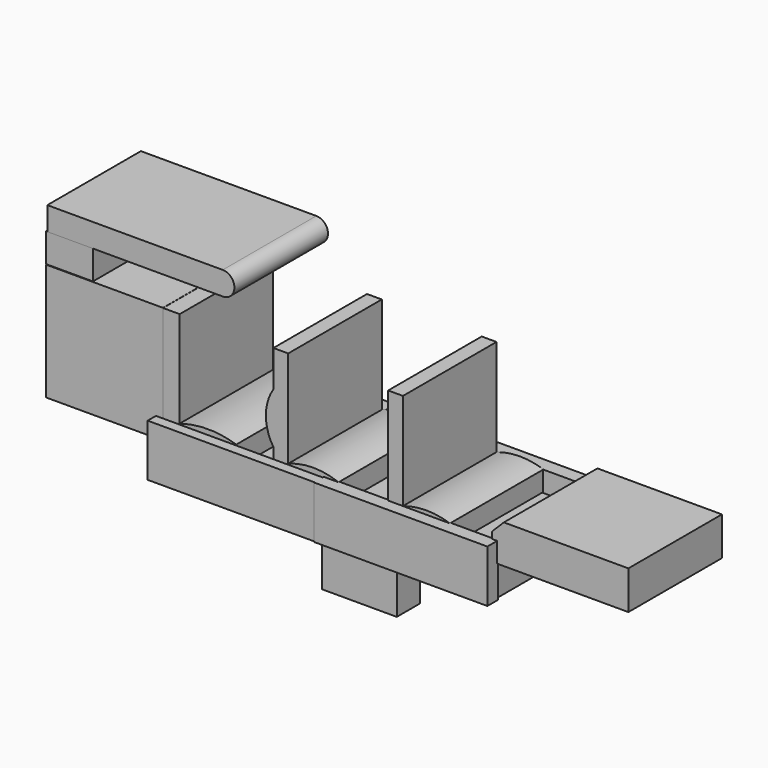
from build123d import *

# Parameters (mm, degrees)
F7_W      = 20.4032808542
F7_H      = 8.5985250771
F8_DEPTH  = 25.4
F6_W      = 59.1665431857
F6_H      = 16.7275518179
F0_W      = 50.3220036626
F0_H      = 14.3777141348
F0_W_2    = 45.4033091664
F0_W_3    = 50.7003590465
F2_W      = 24.6153399348
F2_H      = 9.1578979045
F1_W      = 50.8
F1_H      = 50.8
F3_W      = 20.32
F3_H      = 12.7
F9_W      = 12.7
F9_H      = 33.02
F10_DEPTH = 16.256
F11_SIZE  = 5.08
F12_W     = 5.9804692864
F12_H     = 22.266164422
F14_DEPTH = 77.4276182055
F13_W     = 5.8142244816
F13_H     = 22.748529911
F15_DEPTH = 75.2947013825
F16_W     = 4.5022070408
F16_H     = 22.6454883814
F17_DEPTH = 72.4648684263
F18_DEPTH = 73.5713392496


with BuildPart() as f8:
    # F7 (on Front) → F8 (new body, symmetric)
    with BuildSketch(Plane.XZ):
        Polygon((27.9382038862, 42.1181991696), (27.9382038862, -8.5985250771), (34.3506634235, -8.5985250771), (34.3506634235, 0), (34.3506634235, 42.1181991696), align=None)
        with Locations((44.5523038507, -4.2992625386)):
            Rectangle(F7_W, F7_H)
        with BuildLine():
            ThreePointArc((54.7539442778, 0), (44.5523038507, 1.6690761612), (34.3506634235, 0))
            Line((34.3506634235, 0), (54.7539442778, 0))
        make_face()
    extrude(amount=F8_DEPTH, both=True)


with BuildPart() as f8b:
    # F5 (on Front) → F8, piece 2 (new body, symmetric)
    with BuildSketch(Plane.XZ):
        Polygon((-21.9093549779, 4.226393532), (-21.9093549779, -8.6401629537), (-15.4863672549, -8.6401629537), (-15.4863672549, 0), (-15.4863672549, 42.1598370463), (-21.9093549779, 42.1598370463), (-21.9093549779, 26.3785235584), align=None)
        with BuildLine():
            ThreePointArc((-21.9093549779, 26.3785235584), (-25.1835237072, 15.3024585452), (-21.9093549779, 4.226393532))
            Line((-21.9093549779, 4.226393532), (-21.9093549779, 26.3785235584))
        make_face()
        Polygon((-15.4863672549, 0), (-15.4863672549, -8.6401629537), (-15.4863672549, -8.890000172), (6.3690249808, -8.890000172), (6.3690249808, 0), align=None)
        with BuildLine():
            ThreePointArc((6.3690249808, 0), (-4.558671137, 2.0262505536), (-15.4863672549, 0))
            Line((-15.4863672549, 0), (6.3690249808, 0))
        make_face()
    extrude(amount=F8_DEPTH, both=True)


with BuildPart() as f8c:
    # F6 (on Front) → F8, piece 3 (new body, symmetric)
    with BuildSketch(Plane.XZ):
        with Locations((102.700162679, -0.3482019529)):
            Rectangle(F6_W, F6_H)
    extrude(amount=F8_DEPTH, both=True)

    # F11
    f11_edges = [f8c.edges().sort_by_distance(p)[0] for p in [
        (73.116891, 0, 8.015574),
    ]]
    chamfer(f11_edges, length=F11_SIZE)


with BuildPart() as f8d:
    # F0 (on Front) → F8, piece 4 (new body, symmetric)
    with BuildSketch(Plane.XZ):
        with Locations((2.905998379, -16.1460391246)):
            Rectangle(F0_W, F0_H)
        with Locations((50.7686547935, -16.1460391246)):
            Rectangle(F0_W_2, F0_H)
        with Locations((-47.6051829755, -16.1460391246)):
            Rectangle(F0_W_3, F0_H)
    extrude(amount=F8_DEPTH, both=True)

    # F9 (on Right) → F10 (join, symmetric)
    with BuildSketch(Plane.YZ):
        with Locations((0.2290169545, -39.5990186238)):
            Rectangle(F9_W, F9_H)
    extrude(amount=F10_DEPTH, both=True)


with BuildPart() as f8e:
    # F2 (on Front) → F8, piece 5 (new body, symmetric)
    with BuildSketch(Plane.XZ):
        with Locations((-50.3292120993, -4.5789489523)):
            Rectangle(F2_W, F2_H)
        with BuildLine():
            ThreePointArc((-38.0215421319, 0), (-50.3292120993, 1.8928495448), (-62.6368820667, 0))
            Line((-62.6368820667, 0), (-38.0215421319, 0))
        make_face()
        Polygon((-62.6368820667, 41.8521985412), (-70.0511336327, 41.8521985412), (-70.0511336327, -9.1578979045), (-62.6368820667, -9.1578979045), (-62.6368820667, 0), align=None)
    extrude(amount=F8_DEPTH, both=True)


with BuildPart() as f8f:
    # F1 (on Front) → F8, piece 6 (new body, symmetric)
    with BuildSketch(Plane.XZ):
        with Locations((-95.270825243, 16.509999828)):
            Rectangle(F1_W, F1_H)
    extrude(amount=F8_DEPTH, both=True)


with BuildPart() as f8g:
    # F3 (on Front) → F8, piece 7 (new body, symmetric)
    with BuildSketch(Plane.XZ):
        with Locations((-110.4709812737, 48.4681991696)):
            Rectangle(F3_W, F3_H)
    extrude(amount=F8_DEPTH, both=True)


with BuildPart() as f8h:
    # F4 (on Front) → F8, piece 8 (new body, symmetric)
    with BuildSketch(Plane.XZ):
        with BuildLine():
            Line((-120.1313063502, 64.8532807827), (-120.1313063502, 54.6932807827))
            Line((-120.1313063502, 54.6932807827), (-43.9313063502, 54.6932807827))
            ThreePointArc((-43.9313063502, 54.6932807827), (-38.8513063502, 59.7732807827), (-43.9313063502, 64.8532807827))
            Line((-43.9313063502, 64.8532807827), (-120.1313063502, 64.8532807827))
        make_face()
        with BuildLine():
            Line((-120.1313063502, 64.8532807827), (-120.1313063502, 54.6932807827))
            Line((-120.1313063502, 54.6932807827), (-43.9313063502, 54.6932807827))
            ThreePointArc((-43.9313063502, 54.6932807827), (-38.8513063502, 59.7732807827), (-43.9313063502, 64.8532807827))
            Line((-43.9313063502, 64.8532807827), (-120.1313063502, 64.8532807827))
        make_face()
    extrude(amount=F8_DEPTH, both=True)


with BuildPart() as f14:
    # F12 (on Right) → F14 (new body)
    with BuildSketch(Plane.YZ):
        with Locations((28.2701589167, -11.133082211)):
            Rectangle(F12_W, F12_H)
    extrude(amount=F14_DEPTH)


with BuildPart() as f15:
    # F13 (on Right) → F15 (new body)
    with BuildSketch(Plane.YZ):
        with Locations((-27.8213471174, -11.3742649555)):
            Rectangle(F13_W, F13_H)
    extrude(amount=F15_DEPTH)

    # F16 (on Right) → F17 (join)
    with BuildSketch(Plane.YZ):
        with Locations((-28.2480791211, -11.3227441907)):
            Rectangle(F16_W, F16_H)
    extrude(amount=-F17_DEPTH)


with BuildPart() as f18:
    # F18 (new): a face of the model
    f18_faces = [f14.part.faces().sort_by_distance(p)[0] for p in [
        (0, 28.2701589167, -11.133082211),
    ]]
    extrude(f18_faces, amount=F18_DEPTH)


solid = Compound([f8.part, f8b.part, f8c.part, f8d.part, f8e.part, f8f.part, f8g.part, f8h.part, f14.part, f15.part, f18.part])
